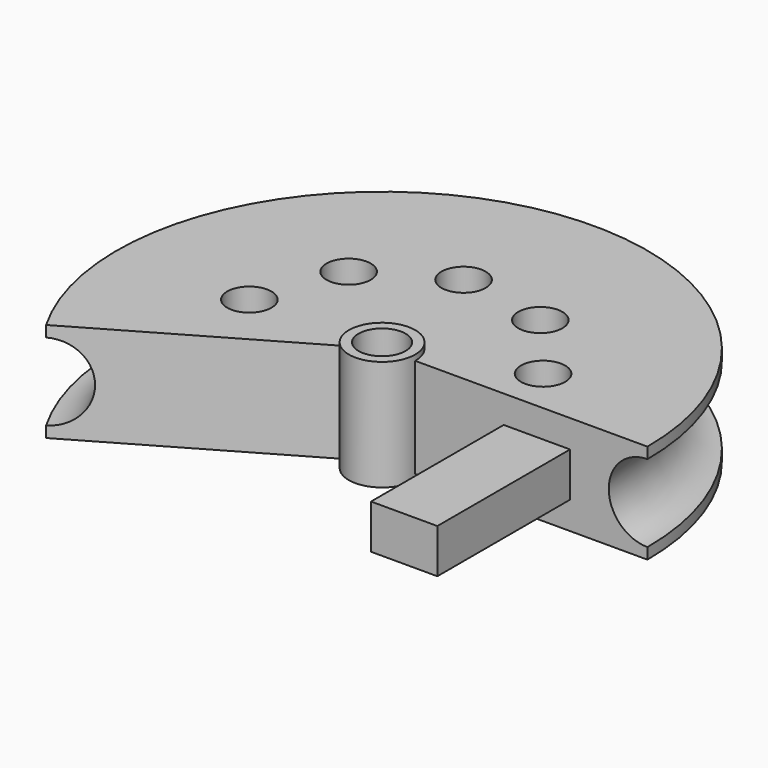
from build123d import *

# Parameters (mm, degrees)
F1_ANGLE = 210
F2_R     = 13.49375
F3_DEPTH = 69.85
F4_R     = 12.7
F5_DEPTH = 63.5
F6_W     = 38.1
F6_H     = 25.4
F7_DEPTH = 95.25
F8_R     = 19.05
F8_R_2   = 13.49375
F9_DEPTH = 63.5


with BuildPart() as f1:
    # F0 (on Front) → F1 (revolve)
    with BuildSketch(Plane.XZ):
        with BuildLine():
            Line((19.05, 57.15), (19.05, 0))
            Line((19.05, 0), (152.4, 0))
            Line((152.4, 0), (152.4, 6.35))
            ThreePointArc((152.4, 6.35), (130.175, 28.575), (152.4, 50.8))
            Line((152.4, 50.8), (152.4, 57.15))
            Line((152.4, 57.15), (19.05, 57.15))
        make_face()
        Polygon((19.05, -3.175), (19.05, 0), (19.05, 57.15), (19.05, 60.325), (0, 60.325), (0, 57.15), (0, 0), (0, -3.175), align=None)
    revolve(axis=Axis((0, 0, 28.575), (0, 0, 1)), revolution_arc=F1_ANGLE)

    # F2 (on face) → F3 (cut)
    with BuildSketch(Plane.XY.offset(60.325)):
        Circle(F2_R)
    extrude(amount=-F3_DEPTH, mode=Mode.SUBTRACT)

    # F4 (on face) → F5 (cut)
    with BuildSketch(Plane.XY.offset(57.15)):
        with Locations((-76.2, 0)):
            Circle(F4_R)
        with Locations((-58.372587, 48.980416)):
            Circle(F4_R)
        with Locations((-13.231991, 75.042351)):
            Circle(F4_R)
        with Locations((38.1, 65.991136)):
            Circle(F4_R)
        with Locations((71.604578, 26.061935)):
            Circle(F4_R)
    extrude(amount=-F5_DEPTH, mode=Mode.SUBTRACT)

    # F6 (on face) → F7 (join)
    with BuildSketch(Plane.XZ):
        with Locations((88.9, 28.575)):
            Rectangle(F6_W, F6_H)
    extrude(amount=F7_DEPTH)

    # F8 (on face) → F9 (join)
    with BuildSketch(Plane.XY.offset(60.325)):
        Circle(F8_R)
        Circle(F8_R_2, mode=Mode.SUBTRACT)
    extrude(amount=-F9_DEPTH)


solid = f1.part
